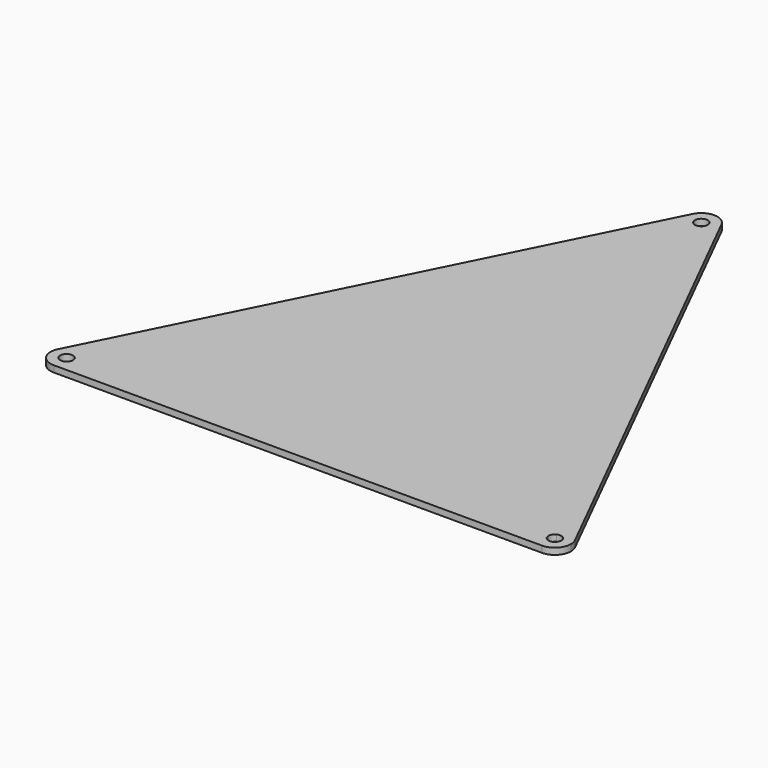
from build123d import *

# Parameters (mm, degrees)
F1_DEPTH = 5


with BuildPart() as f1:
    # F0 (on Top) → F1 (new body)
    with BuildSketch(Plane.XY):
        with BuildLine():
            ThreePointArc((11.1803398875, 184.4098300563), (12.1656123683, 187.1280884932), (12.5, 190))
            ThreePointArc((12.5, 190), (12.1656123683, 192.8719115068), (11.1803398875, 195.5901699437))
            ThreePointArc((11.1803398875, 195.5901699437), (0, 202.5), (-11.1803398875, 195.5901699437))
            ThreePointArc((-11.1803398875, 195.5901699437), (-12.5, 190), (-11.1803398875, 184.4098300563))
            ThreePointArc((-11.1803398875, 184.4098300563), (-8.8388347648, 181.1611652352), (-5.5901699437, 178.8196601125))
            Line((-5.5901699437, 178.8196601125), (-2.2360679775, 185.527864045))
            ThreePointArc((-2.2360679775, 185.527864045), (-2.6286555606, 194.2532540418), (5, 190))
            ThreePointArc((5, 190), (4.2532540418, 187.3713444394), (2.2360679775, 185.527864045))
            Line((2.2360679775, 185.527864045), (5.5901699437, 178.8196601125))
            ThreePointArc((5.5901699437, 178.8196601125), (8.8388347648, 181.1611652352), (11.1803398875, 184.4098300563))
        make_face()
        with BuildLine():
            ThreePointArc((-11.1803398875, 184.4098300563), (-12.5, 190), (-11.1803398875, 195.5901699437))
            Line((-11.1803398875, 195.5901699437), (-201.1803398875, -184.4098300563))
            ThreePointArc((-201.1803398875, -184.4098300563), (-196.5716389015, -179.3668648956), (-190, -177.5))
            Line((-190, -177.5), (-183.75, -177.5))
            Line((-183.75, -177.5), (-6.9877124297, 176.0245751406))
            Line((-6.9877124297, 176.0245751406), (-11.1803398875, 184.4098300563))
        make_face()
        with BuildLine():
            ThreePointArc((11.1803398875, 195.5901699437), (12.1656123683, 192.8719115068), (12.5, 190))
            ThreePointArc((12.5, 190), (12.1656123683, 187.1280884932), (11.1803398875, 184.4098300563))
            Line((11.1803398875, 184.4098300563), (6.9877124297, 176.0245751406))
            Line((6.9877124297, 176.0245751406), (183.75, -177.5))
            Line((183.75, -177.5), (190, -177.5))
            ThreePointArc((190, -177.5), (196.5716389015, -179.3668648956), (201.1803398875, -184.4098300563))
            Line((201.1803398875, -184.4098300563), (11.1803398875, 195.5901699437))
        make_face()
        with BuildLine():
            ThreePointArc((-178.8196601125, -195.5901699437), (-183.4283610985, -200.6331351044), (-190, -202.5))
            Line((-190, -202.5), (190, -202.5))
            ThreePointArc((190, -202.5), (183.4283610985, -200.6331351044), (178.8196601125, -195.5901699437))
            Line((178.8196601125, -195.5901699437), (176.0245751406, -190))
            Line((176.0245751406, -190), (-176.0245751406, -190))
            Line((-176.0245751406, -190), (-178.8196601125, -195.5901699437))
        make_face()
        Polygon((183.75, -177.5), (6.9877124297, 176.0245751406), (0, 162.0491502813), (169.7745751406, -177.5), align=None)
        with BuildLine():
            ThreePointArc((-5.5901699437, 178.8196601125), (0, 177.5), (5.5901699437, 178.8196601125))
            Line((5.5901699437, 178.8196601125), (2.2360679775, 185.527864045))
            ThreePointArc((2.2360679775, 185.527864045), (0, 185), (-2.2360679775, 185.527864045))
            Line((-2.2360679775, 185.527864045), (-5.5901699437, 178.8196601125))
        make_face()
        Polygon((176.0245751406, -190), (169.7745751406, -177.5), (-169.7745751406, -177.5), (-176.0245751406, -190), align=None)
        Polygon((-169.7745751406, -177.5), (0, 162.0491502813), (-6.9877124297, 176.0245751406), (-183.75, -177.5), align=None)
        with BuildLine():
            Line((6.9877124297, 176.0245751406), (5.5901699437, 178.8196601125))
            ThreePointArc((5.5901699437, 178.8196601125), (0, 177.5), (-5.5901699437, 178.8196601125))
            Line((-5.5901699437, 178.8196601125), (-6.9877124297, 176.0245751406))
            Line((-6.9877124297, 176.0245751406), (0, 162.0491502813))
            Line((0, 162.0491502813), (6.9877124297, 176.0245751406))
        make_face()
        with BuildLine():
            Line((-176.0245751406, -190), (-169.7745751406, -177.5))
            Line((-169.7745751406, -177.5), (-183.75, -177.5))
            Line((-183.75, -177.5), (-184.4098300563, -178.8196601125))
            ThreePointArc((-184.4098300563, -178.8196601125), (-179.3668648956, -183.4283610985), (-177.5, -190))
            Line((-177.5, -190), (-176.0245751406, -190))
        make_face()
        with BuildLine():
            Line((184.4098300563, -178.8196601125), (183.75, -177.5))
            Line((183.75, -177.5), (169.7745751406, -177.5))
            Line((169.7745751406, -177.5), (176.0245751406, -190))
            Line((176.0245751406, -190), (177.5, -190))
            ThreePointArc((177.5, -190), (179.3668648956, -183.4283610985), (184.4098300563, -178.8196601125))
        make_face()
        with BuildLine():
            ThreePointArc((-177.5, -190), (-177.8343876317, -192.8719115068), (-178.8196601125, -195.5901699437))
            Line((-178.8196601125, -195.5901699437), (-176.0245751406, -190))
            Line((-176.0245751406, -190), (-177.5, -190))
        make_face()
        with BuildLine():
            Line((6.9877124297, 176.0245751406), (11.1803398875, 184.4098300563))
            ThreePointArc((11.1803398875, 184.4098300563), (8.8388347648, 181.1611652352), (5.5901699437, 178.8196601125))
            Line((5.5901699437, 178.8196601125), (6.9877124297, 176.0245751406))
        make_face()
        with BuildLine():
            ThreePointArc((-5.5901699437, 178.8196601125), (-8.8388347648, 181.1611652352), (-11.1803398875, 184.4098300563))
            Line((-11.1803398875, 184.4098300563), (-6.9877124297, 176.0245751406))
            Line((-6.9877124297, 176.0245751406), (-5.5901699437, 178.8196601125))
        make_face()
        with BuildLine():
            Line((176.0245751406, -190), (178.8196601125, -195.5901699437))
            ThreePointArc((178.8196601125, -195.5901699437), (177.8343876317, -192.8719115068), (177.5, -190))
            Line((177.5, -190), (176.0245751406, -190))
        make_face()
        with BuildLine():
            ThreePointArc((184.4098300563, -178.8196601125), (187.1280884932, -177.8343876317), (190, -177.5))
            Line((190, -177.5), (183.75, -177.5))
            Line((183.75, -177.5), (184.4098300563, -178.8196601125))
        make_face()
        with BuildLine():
            Line((-183.75, -177.5), (-190, -177.5))
            ThreePointArc((-190, -177.5), (-187.1280884932, -177.8343876317), (-184.4098300563, -178.8196601125))
            Line((-184.4098300563, -178.8196601125), (-183.75, -177.5))
        make_face()
        with BuildLine():
            ThreePointArc((-190, -177.5), (-196.5716389015, -179.3668648956), (-201.1803398875, -184.4098300563))
            ThreePointArc((-201.1803398875, -184.4098300563), (-200.6331351044, -196.5716389015), (-190, -202.5))
            ThreePointArc((-190, -202.5), (-183.4283610985, -200.6331351044), (-178.8196601125, -195.5901699437))
            ThreePointArc((-178.8196601125, -195.5901699437), (-177.8343876317, -192.8719115068), (-177.5, -190))
            Line((-177.5, -190), (-185, -190))
            ThreePointArc((-185, -190), (-194.2532540418, -192.6286555606), (-187.7639320225, -185.527864045))
            Line((-187.7639320225, -185.527864045), (-184.4098300563, -178.8196601125))
            ThreePointArc((-184.4098300563, -178.8196601125), (-187.1280884932, -177.8343876317), (-190, -177.5))
        make_face()
        with BuildLine():
            ThreePointArc((-177.5, -190), (-179.3668648956, -183.4283610985), (-184.4098300563, -178.8196601125))
            Line((-184.4098300563, -178.8196601125), (-187.7639320225, -185.527864045))
            ThreePointArc((-187.7639320225, -185.527864045), (-185.7467459582, -187.3713444394), (-185, -190))
            Line((-185, -190), (-177.5, -190))
        make_face()
        with BuildLine():
            ThreePointArc((202.5, -190), (202.1656123683, -187.1280884932), (201.1803398875, -184.4098300563))
            ThreePointArc((201.1803398875, -184.4098300563), (196.5716389015, -179.3668648956), (190, -177.5))
            ThreePointArc((190, -177.5), (187.1280884932, -177.8343876317), (184.4098300563, -178.8196601125))
            Line((184.4098300563, -178.8196601125), (187.7639320225, -185.527864045))
            ThreePointArc((187.7639320225, -185.527864045), (192.6286555606, -185.7467459582), (195, -190))
            ThreePointArc((195, -190), (190, -195), (185, -190))
            Line((185, -190), (177.5, -190))
            ThreePointArc((177.5, -190), (177.8343876317, -192.8719115068), (178.8196601125, -195.5901699437))
            ThreePointArc((178.8196601125, -195.5901699437), (183.4283610985, -200.6331351044), (190, -202.5))
            ThreePointArc((190, -202.5), (198.8388347648, -198.8388347648), (202.5, -190))
        make_face()
        with BuildLine():
            Line((187.7639320225, -185.527864045), (184.4098300563, -178.8196601125))
            ThreePointArc((184.4098300563, -178.8196601125), (179.3668648956, -183.4283610985), (177.5, -190))
            Line((177.5, -190), (185, -190))
            ThreePointArc((185, -190), (185.7467459582, -187.3713444394), (187.7639320225, -185.527864045))
        make_face()
        Polygon((169.7745751406, -177.5), (0, 162.0491502813), (-169.7745751406, -177.5), align=None)
    extrude(amount=F1_DEPTH)


solid = f1.part
